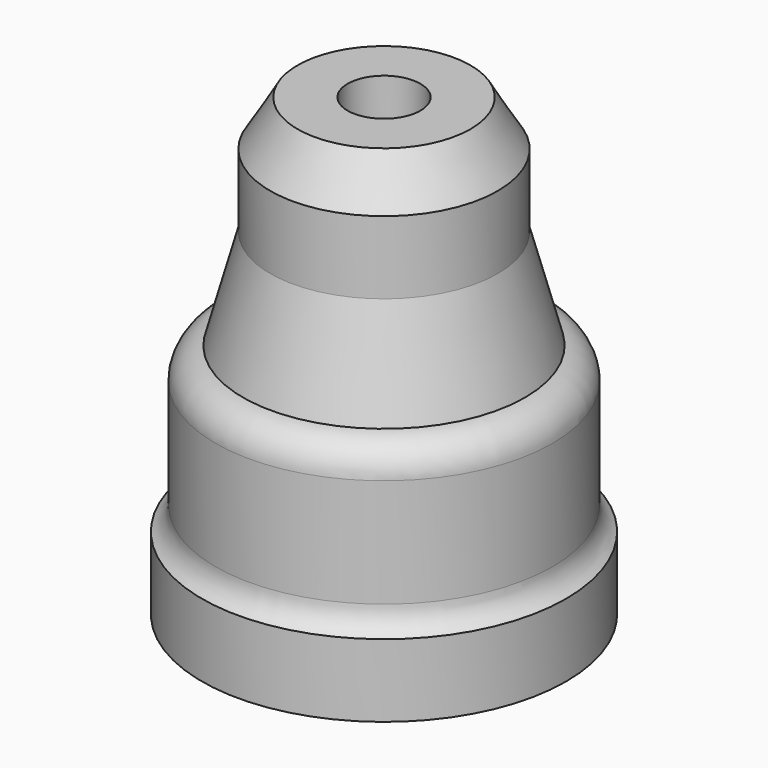
from build123d import *

# Parameters (mm, degrees)
F3_D     = 8
F3_DEPTH = 12
F3_TIP   = 2.4034424761


with BuildPart() as f1:
    # F0 (on Front) → F1 (revolve)
    with BuildSketch(Plane.XZ):
        with BuildLine():
            Line((0, 0), (0, -50))
            Line((0, -50), (20, -50))
            Line((20, -50), (20, -42))
            ThreePointArc((20, -42), (18.9019237886, -40.9019237886), (18.5, -39.4019237886))
            Line((18.5, -39.4019237886), (18.5, -27.4641016151))
            ThreePointArc((18.5, -27.4641016151), (17.6457513111, -25.1728137677), (15.5, -24))
            Line((15.5, -24), (12.5, -13))
            Line((12.5, -13), (12.5, -5))
            Line((12.5, -5), (9.5, 0))
            Line((9.5, 0), (0, 0))
        make_face()
    revolve(axis=Axis((0, 0, -25), (0, 0, -1)))

    # F3
    with Locations(Plane.XY):
        with Locations((0, 0)):
            Hole(F3_D / 2, depth=F3_DEPTH)
            with Locations((0, 0, -(F3_DEPTH + F3_TIP / 2))):  # 118° drill point
                Cone(0, F3_D / 2, F3_TIP, mode=Mode.SUBTRACT)


solid = f1.part
